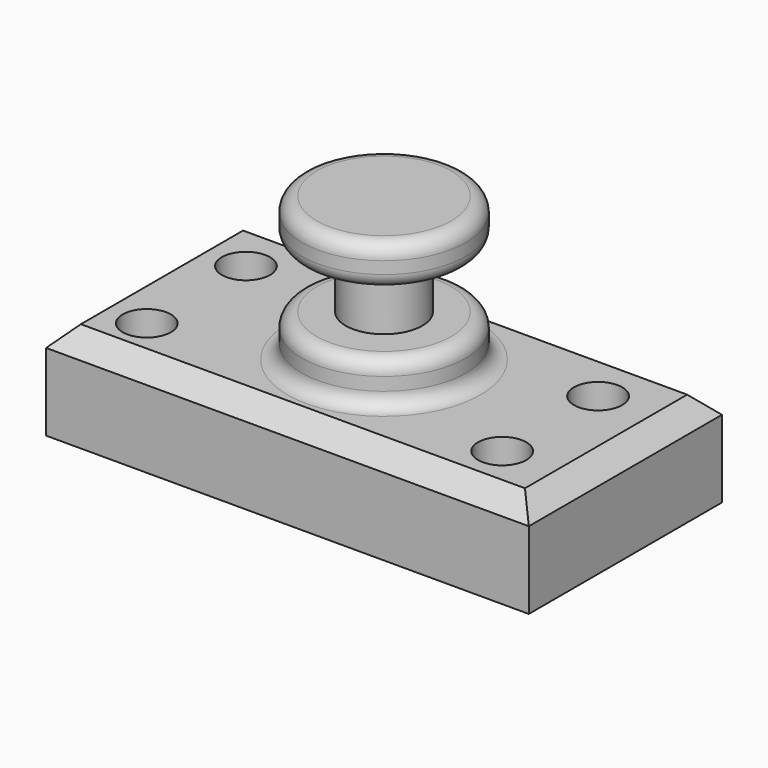
from build123d import *

# Parameters (mm, degrees)
F0_W     = 127
F0_H     = 63.5
F1_DEPTH = 25.4
F3_D     = 12.7
F4_W     = 21.5339493006
F4_H     = 37.8580782562
F6_W     = 15.2821568772
F6_H     = 15.9768015146
F8_R     = 3.81
F9_SIZE  = 5.08


with BuildPart() as f1:
    # F0 (on Top) → F1 (new body)
    with BuildSketch(Plane.XY):
        Rectangle(F0_W, F0_H)
    extrude(amount=F1_DEPTH)

    # F3 (through all)
    with Locations(Plane(origin=(0, 0, 0), x_dir=(1, 0, 0), z_dir=(0, 0, -1))):
        with Locations((-48.0844858662, -14.7022493572), (-48.0844858662, 17.8973527858), (44.45, 16.7003627867), (44.5604218255, -14.7022493572)):
            Hole(F3_D / 2)

    # F4 (on Front) → F5 (revolve)
    with BuildSketch(Plane.XZ):
        with Locations((-10.7669746503, 44.3290391281)):
            Rectangle(F4_W, F4_H)
    revolve(axis=Axis((0, 0, 44.3290391281), (0, 0, 1)))

    # F6 (on Front) → F7 (revolve, cut)
    with BuildSketch(Plane.XZ):
        with Locations((-17.7134093828, 44.4571860135)):
            Rectangle(F6_W, F6_H)
    revolve(axis=Axis((0, 0, 63.2580782562), (0, 0, -1)), mode=Mode.SUBTRACT)

    # F8
    f8_edges = [f1.edges().sort_by_distance(p)[0] for p in [
        (21.533949, 0, 63.258078),
        (21.533949, 0, 36.468785),
        (21.533949, 0, 25.4),
        (21.533949, 0, 52.445587),
    ]]
    fillet(f8_edges, radius=F8_R)

    # F9
    f9_edges = [f1.edges().sort_by_distance(p)[0] for p in [
        (0, 31.75, 25.4),
        (-63.5, 0, 25.4),
        (0, -31.75, 25.4),
        (63.5, 0, 25.4),
    ]]
    chamfer(f9_edges, length=F9_SIZE)


solid = f1.part
